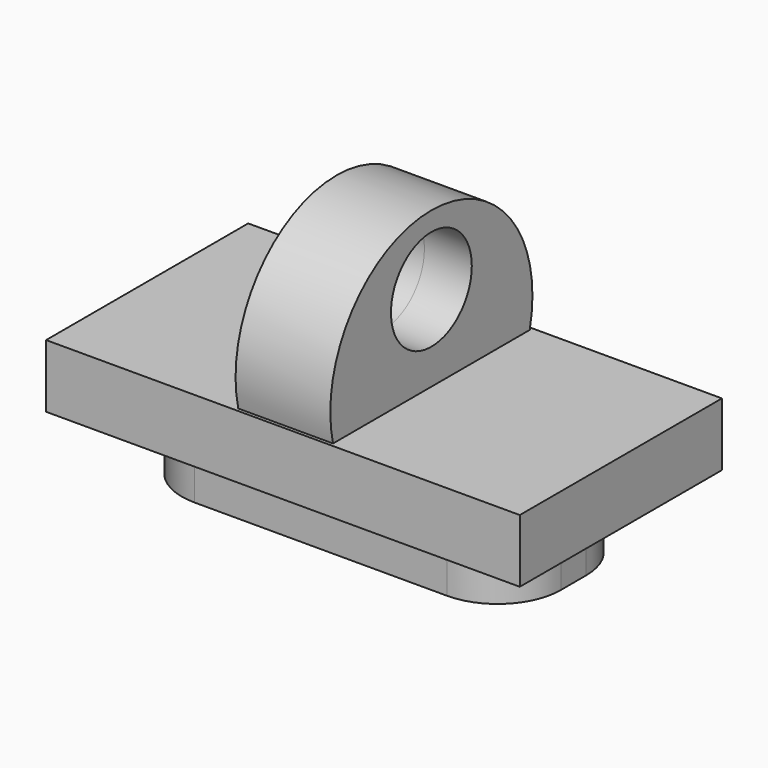
from build123d import *

# Parameters (mm, degrees)
F0_W          = 12
F0_H          = 5
F1_DEPTH      = 2
F2_R          = 2
F3_W          = 15
F3_H          = 8
F4_DEPTH      = 2
F6_DEPTH      = 1.5
F7_DEPTH      = 1.5
F7_DEPTH_BACK = 1.5
F8_R          = 1.6
F9_DEPTH      = 1.5
F9_DEPTH_BACK = 1.5


with BuildPart() as f1:
    # F0 (on Top) → F1 (new body)
    with BuildSketch(Plane.XY):
        Rectangle(F0_W, F0_H)
    extrude(amount=-F1_DEPTH)

    # F2
    f2_edges = [f1.edges().sort_by_distance(p)[0] for p in [
        (6, 2.5, -1),
        (6, -2.5, -1),
        (-6, -2.5, -1),
        (-6, 2.5, -1),
    ]]
    fillet(f2_edges, radius=F2_R)

    # F3 (on Top) → F4 (join)
    with BuildSketch(Plane.XY):
        Rectangle(F3_W, F3_H)
    extrude(amount=F4_DEPTH)


with BuildPart() as f6:
    # F5 (on Right) → F6 (new body)
    with BuildSketch(Plane.YZ):
        with BuildLine():
            Line((-3.8929907368, 2), (3.8929907368, 2))
            ThreePointArc((3.8929907368, 2), (0, 6.9190337989), (-3.8929907368, 2))
        make_face()
    extrude(amount=F6_DEPTH)


with BuildPart() as f7:
    # F5 (on Right) → F7 (new body, two sides)
    with BuildSketch(Plane.YZ) as f7_sk:
        with BuildLine():
            Line((-3.8929907368, 2), (3.8929907368, 2))
            ThreePointArc((3.8929907368, 2), (0, 6.9190337989), (-3.8929907368, 2))
        make_face()
    extrude(amount=F7_DEPTH)
    extrude(f7_sk.sketch, amount=-F7_DEPTH_BACK)


with BuildPart() as f9_tool:
    # F8 (on Right) → F9 (new body, two sides)
    with BuildSketch(Plane.YZ) as f9_sk:
        with Locations((0, 4.7139995731)):
            Circle(F8_R)
    extrude(amount=-F9_DEPTH)
    extrude(f9_sk.sketch, amount=F9_DEPTH_BACK)


with BuildPart() as f6_1:
    add(f6.part)

    # F9: cut by f9_tool
    add(f9_tool.part, mode=Mode.SUBTRACT)


with BuildPart() as f7_1:
    add(f7.part)

    # F9: cut by f9_tool
    add(f9_tool.part, mode=Mode.SUBTRACT)


solid = Compound([f1.part, f6_1.part, f7_1.part])
